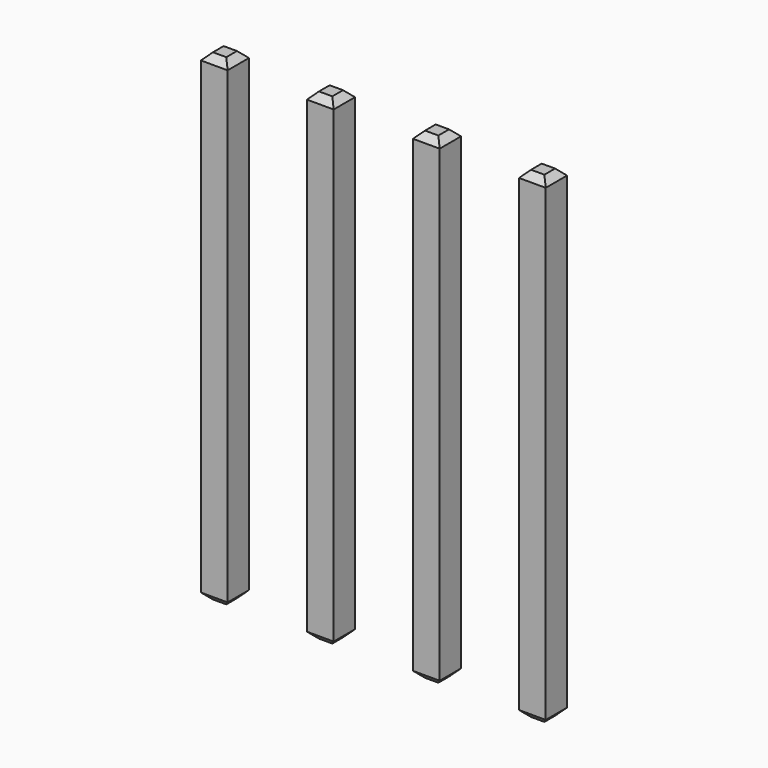
from build123d import *

# Parameters (mm, degrees)
SKETCH231_W       = 0.64
SKETCH231_H       = 11.54
PAD085_DEPTH      = 0.32
PAD085_DEPTH_BACK = 0.32
CHAMFER048_SIZE   = 0.16
ARRAY018_X_COUNT  = 4
ARRAY018_X_PITCH  = 2.54


with BuildPart() as part:
    # Sketch231 → Pad085 (new body, two sides)
    with BuildSketch(Plane.XZ) as pad085_sk:
        with Locations((0, 2.77)):
            Rectangle(SKETCH231_W, SKETCH231_H)
    extrude(amount=PAD085_DEPTH)
    extrude(pad085_sk.sketch, amount=-PAD085_DEPTH_BACK)

    # Chamfer048
    chamfer048_edges = [part.edges().sort_by_distance(p)[0] for p in [
        (0.32, 0, 8.54),
        (-0.32, 0, 8.54),
        (0, 0.32, 8.54),
        (0, -0.32, 8.54),
        (-0.32, 0, -3),
        (0.32, 0, -3),
        (0, 0.32, -3),
        (0, -0.32, -3),
    ]]
    chamfer(chamfer048_edges, length=CHAMFER048_SIZE)

    # Array018 X: part ×4


with BuildPart() as part_1:
    add(part.part)
    with Locations(*[(i * ARRAY018_X_PITCH, 0, 0) for i in range(1, ARRAY018_X_COUNT)]):
        add(part.part)


solid = part_1.part
